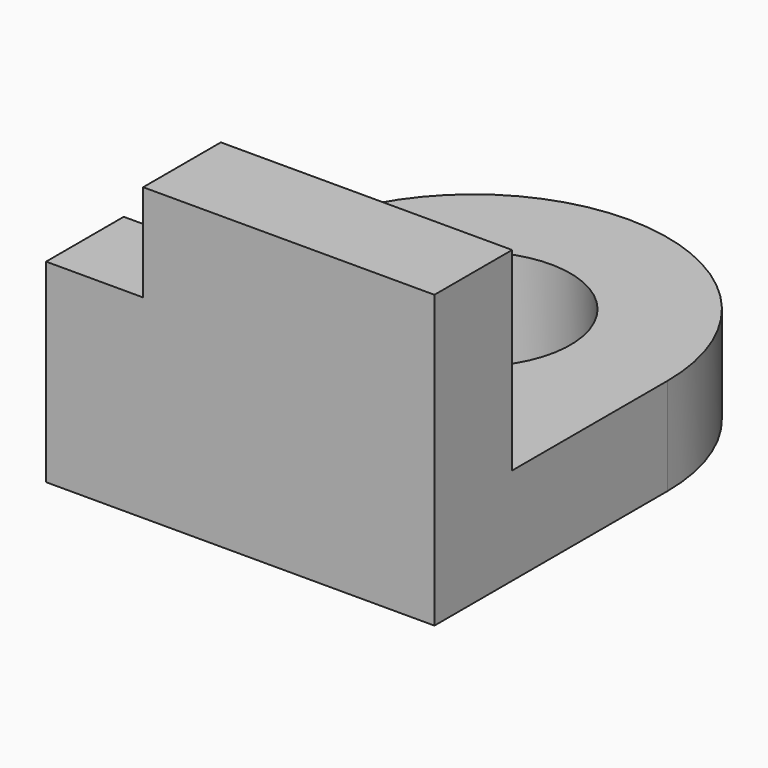
from build123d import *

# Parameters (mm, degrees)
F1_DEPTH = 12.7
F2_W     = 38.1
F2_H     = 12.7
F2_W_2   = 12.7
F3_DEPTH = 25.4
F4_W     = 12.7
F4_H     = 12.7
F5_DEPTH = 12.7


with BuildPart() as f1:
    # F0 (on Top) → F1 (new body)
    with BuildSketch(Plane.XY):
        with BuildLine():
            Line((-25.4, 38.1), (-25.4, 0))
            Line((-25.4, 0), (25.4, 0))
            Line((25.4, 0), (25.4, 38.1))
            Line((25.4, 38.1), (12.7, 38.1))
            ThreePointArc((12.7, 38.1), (0, 25.4), (-12.7, 38.1))
            Line((-12.7, 38.1), (-25.4, 38.1))
        make_face()
        with BuildLine():
            ThreePointArc((25.4, 38.1), (0, 63.5), (-25.4, 38.1))
            Line((-25.4, 38.1), (-12.7, 38.1))
            ThreePointArc((-12.7, 38.1), (0, 50.8), (12.7, 38.1))
            Line((12.7, 38.1), (25.4, 38.1))
        make_face()
    extrude(amount=F1_DEPTH)

    # F2 (on face) → F3 (join)
    with BuildSketch(Plane.XY.offset(12.7)):
        with Locations((6.35, 6.35)):
            Rectangle(F2_W, F2_H)
        with Locations((-19.05, 6.35)):
            Rectangle(F2_W_2, F2_H)
    extrude(amount=F3_DEPTH)

    # F4 (on face) → F5 (cut)
    with BuildSketch(Plane.XY.offset(38.1)):
        with Locations((-19.05, 6.35)):
            Rectangle(F4_W, F4_H)
    extrude(amount=-F5_DEPTH, mode=Mode.SUBTRACT)


solid = f1.part
